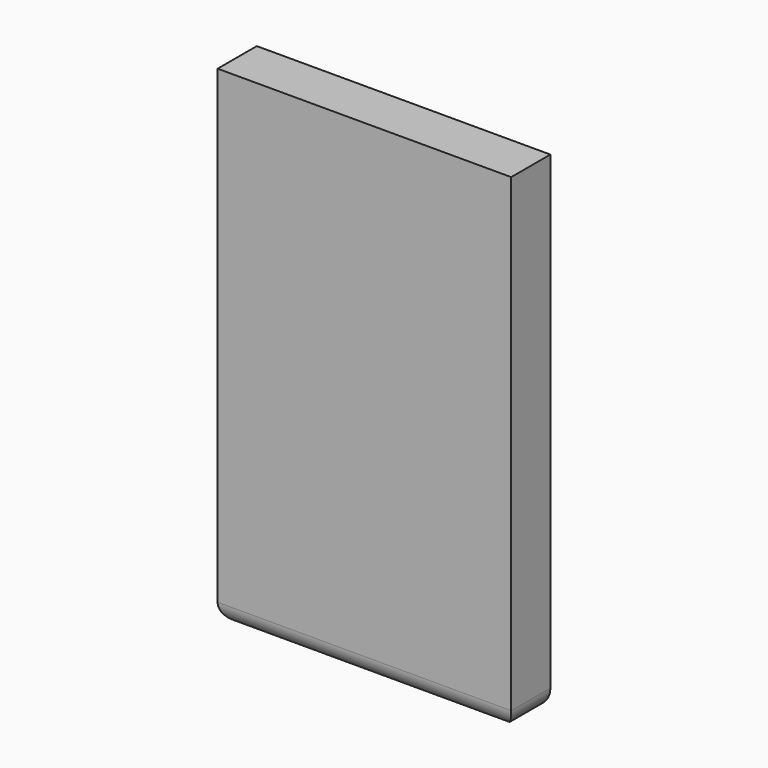
from build123d import *

# Parameters (mm, degrees)
F0_W     = 76.2
F0_H     = 127
F1_DEPTH = 12.7
F2_R     = 5.08


with BuildPart() as f1:
    # F0 (on Front) → F1 (new body)
    with BuildSketch(Plane.XZ):
        Rectangle(F0_W, F0_H)
    extrude(amount=F1_DEPTH)

    # F2
    f2_edges = [f1.edges().sort_by_distance(p)[0] for p in [
        (38.1, -6.35, -63.5),
        (-38.1, -6.35, -63.5),
        (0, -12.7, -63.5),
    ]]
    fillet(f2_edges, radius=F2_R)


solid = f1.part
